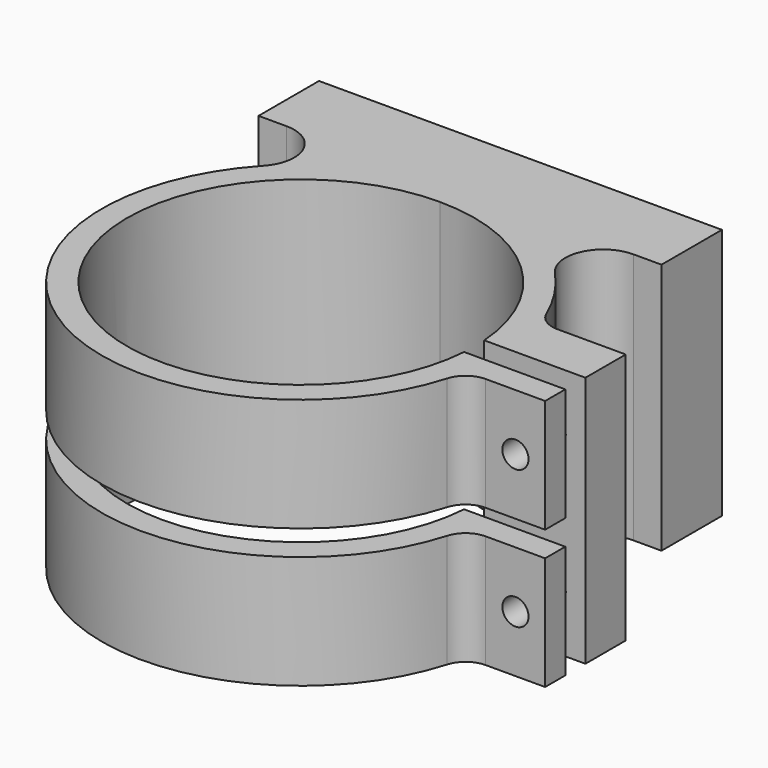
from build123d import *

# Parameters (mm, degrees)
F1_DEPTH = 50
F2_R     = 2.05
F3_DEPTH = 15
F5_R     = 2
F6_DEPTH = 62.001
F5_R_2   = 2.6
F7_DEPTH = 5
F9_DEPTH = 100


with BuildPart() as f1:
    # F0 (on Top) → F1 (new body)
    with BuildSketch(Plane.XY):
        with BuildLine():
            ThreePointArc((34.409301, -2.5), (-25.26361, -23.49468), (0, 34.5))
            Line((0, 34.5), (0, 54.5))
            Line((0, 54.5), (-40, 54.5))
            Line((-40, 54.5), (-40, 39.5))
            Line((-40, 39.5), (-34.423829, 39.5))
            ThreePointArc((-34.423829, 39.5), (-27.548225, 34.996008), (-28.930665, 26.893617))
            ThreePointArc((-28.930665, 26.893617), (-19.51791, -34.340955), (37.909626, -11.095506))
            ThreePointArc((37.909626, -11.095506), (39.710186, -8.498596), (42.708313, -7.5))
            Line((42.708313, -7.5), (54.5, -7.5))
            Line((54.5, -7.5), (54.5, -2.5))
            Line((54.5, -2.5), (34.409301, -2.5))
        make_face()
        with BuildLine():
            ThreePointArc((0, 34.5), (23.49468, 25.26361), (34.409301, 2.5))
            Line((34.409301, 2.5), (54.5, 2.5))
            Line((54.5, 2.5), (54.5, 7.5))
            Line((54.5, 7.5), (54.5, 12.5))
            Line((54.5, 12.5), (40.914545, 12.5))
            ThreePointArc((40.914545, 12.5), (38.16059, 13.326784), (36.317405, 15.533708))
            ThreePointArc((36.317405, 15.533708), (33.114793, 21.532776), (28.930665, 26.893617))
            ThreePointArc((28.930665, 26.893617), (27.548225, 34.996008), (34.423829, 39.5))
            Line((34.423829, 39.5), (40, 39.5))
            Line((40, 39.5), (40, 54.5))
            Line((40, 54.5), (0, 54.5))
            Line((0, 54.5), (0, 34.5))
        make_face()
    extrude(amount=F1_DEPTH)

    # F2 (on face) → F3 (cut)
    with BuildSketch(Plane(origin=(0, 54.5, 0), x_dir=(-1, 0, 0), z_dir=(0, 1, 0))):
        with Locations((-30, 10)):
            Circle(F2_R)
        with Locations((-30, 40)):
            Circle(F2_R)
        with Locations((30, 40)):
            Circle(F2_R)
        with Locations((30, 10)):
            Circle(F2_R)
    extrude(amount=-F3_DEPTH, mode=Mode.SUBTRACT)

    # F5 (on face) → F6 (cut, through all)
    with BuildSketch(Plane.XZ.offset(7.5)):
        with Locations((48.604157, 11.25)):
            Circle(F5_R)
        with Locations((48.604157, 38.75)):
            Circle(F5_R)
    extrude(amount=-F6_DEPTH, mode=Mode.SUBTRACT)

    # F5 (on face) → F7 (cut, through all)
    with BuildSketch(Plane.XZ.offset(7.5)):
        with Locations((48.604157, 11.25)):
            Circle(F5_R_2)
        with Locations((48.604157, 11.25)):
            Circle(F5_R, mode=Mode.SUBTRACT)
        with Locations((48.604157, 38.75)):
            Circle(F5_R_2)
        with Locations((48.604157, 38.75)):
            Circle(F5_R, mode=Mode.SUBTRACT)
    extrude(amount=-F7_DEPTH, mode=Mode.SUBTRACT)

    # F8 (on Right) → F9 (cut, symmetric)
    with BuildSketch(Plane.YZ):
        with BuildLine():
            ThreePointArc((-2.5, 22.5), (0, 25), (-2.5, 27.5))
            Line((-2.5, 27.5), (-48.95404, 27.5))
            ThreePointArc((-48.95404, 27.5), (-51.45404, 25), (-48.95404, 22.5))
            Line((-48.95404, 22.5), (-2.5, 22.5))
        make_face()
    extrude(amount=F9_DEPTH, both=True, mode=Mode.SUBTRACT)


solid = f1.part
